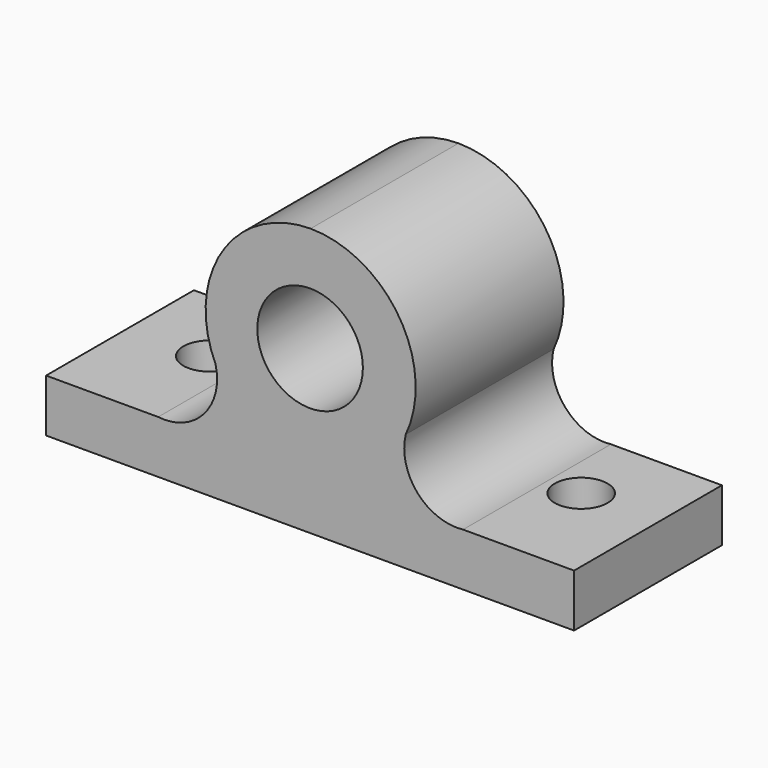
from build123d import *

# Parameters (mm, degrees)
F0_R     = 12.7
F1_DEPTH = 44.45
F2_R     = 6.35
F3_DEPTH = 12.701


with BuildPart() as f1:
    # F0 (on Front) → F1 (new body)
    with BuildSketch(Plane.XZ):
        with BuildLine():
            ThreePointArc((57.748717, 16.796402), (46.756889, 21.022344), (43.962452, 32.462187))
            ThreePointArc((43.962452, 32.462187), (42.407297, 56.789571), (21.084465, 68.603839))
            ThreePointArc((21.084465, 68.603839), (-0.238367, 56.789571), (-1.793522, 32.462187))
            ThreePointArc((-1.793522, 32.462187), (-4.587959, 21.022344), (-15.579787, 16.796402))
            Line((-15.579787, 16.796402), (-42.276816, 16.796402))
            Line((-42.276816, 16.796402), (-42.554254, 16.796402))
            Line((-42.554254, 16.796402), (-42.554254, 4.096402))
            Line((-42.554254, 4.096402), (84.445746, 4.096402))
            Line((84.445746, 4.096402), (84.445746, 16.796402))
            Line((84.445746, 16.796402), (57.748717, 16.796402))
        make_face()
        with Locations((20.945746, 43.204218)):
            Circle(F0_R, mode=Mode.SUBTRACT)
    extrude(amount=F1_DEPTH)

    # F2 (on face) → F3 (cut, through all)
    with BuildSketch(Plane.XY.offset(16.796402)):
        with Locations((65.834609, -19.05)):
            Circle(F2_R)
        with Locations((-23.504254, -19.05)):
            Circle(F2_R)
    extrude(amount=-F3_DEPTH, mode=Mode.SUBTRACT)


solid = f1.part
